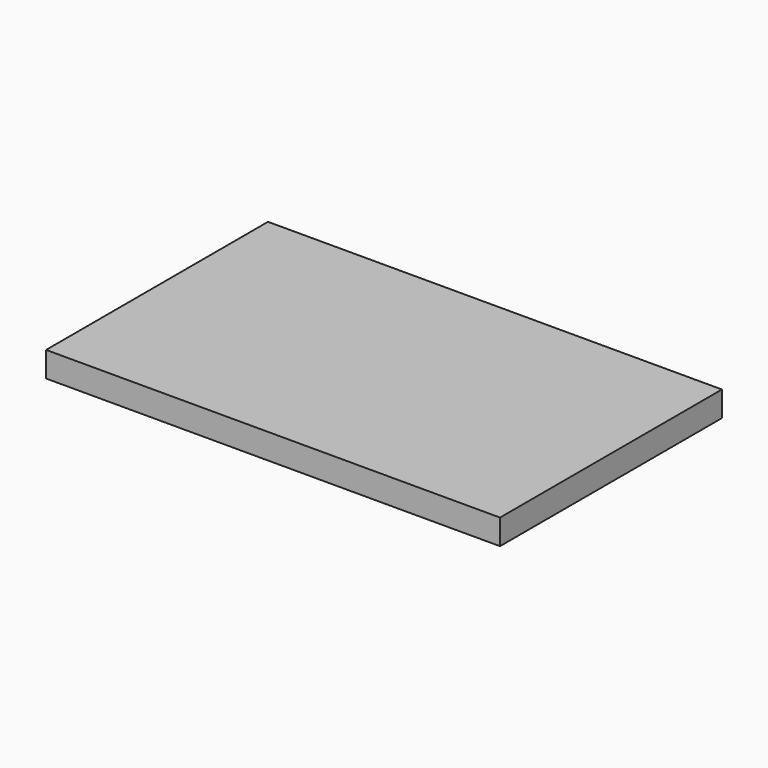
from build123d import *

# Parameters (mm, degrees)
F0_W     = 360
F0_H     = 220
F1_DEPTH = 20
F2_W     = 10
F2_H     = 200
F3_DEPTH = 10
F4_W     = 10
F4_H     = 200
F5_DEPTH = 10


with BuildPart() as f1:
    # F0 (on Top) → F1 (new body)
    with BuildSketch(Plane.XY):
        Rectangle(F0_W, F0_H)
    extrude(amount=F1_DEPTH)

    # F2 (on Top) → F3 (cut)
    with BuildSketch(Plane.XY):
        with Locations((-170, 0)):
            Rectangle(F2_W, F2_H)
    extrude(amount=F3_DEPTH, mode=Mode.SUBTRACT)

    # F4 (on Top) → F5 (cut)
    with BuildSketch(Plane.XY):
        with Locations((170, 0)):
            Rectangle(F4_W, F4_H)
    extrude(amount=F5_DEPTH, mode=Mode.SUBTRACT)


solid = f1.part
